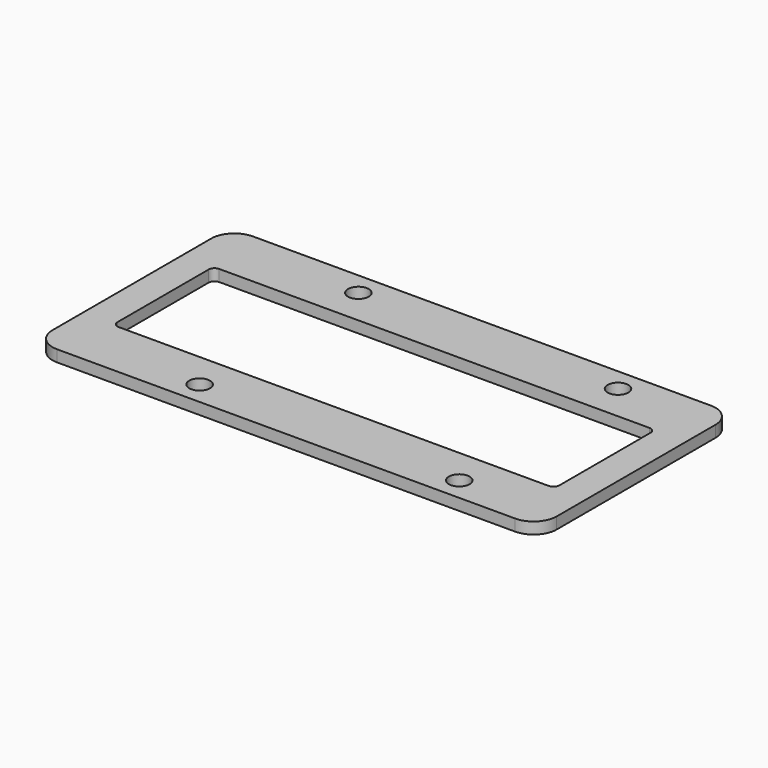
from build123d import *

# Parameters (mm, degrees)
SKETCH_W    = 87.4
SKETCH_H    = 42.4
SKETCH_R    = 1.8
SKETCH_W_2  = 76.6
SKETCH_H_2  = 21.8
PAD_DEPTH   = 2
FILLET_R    = 4
FILLET001_R = 1


with BuildPart() as part:
    # Sketch → Pad (new body)
    with BuildSketch(Plane.XY):
        Rectangle(SKETCH_W, SKETCH_H)
        with Locations((-18.2, 17.2)):
            Circle(SKETCH_R, mode=Mode.SUBTRACT)
        with Locations((-18.2, -17.2)):
            Circle(SKETCH_R, mode=Mode.SUBTRACT)
        with Locations((26.8, -17.2)):
            Circle(SKETCH_R, mode=Mode.SUBTRACT)
        with Locations((26.8, 17.2)):
            Circle(SKETCH_R, mode=Mode.SUBTRACT)
        Rectangle(SKETCH_W_2, SKETCH_H_2, mode=Mode.SUBTRACT)
    extrude(amount=PAD_DEPTH)

    # Fillet
    fillet_edges = [part.edges().sort_by_distance(p)[0] for p in [
        (43.7, -21.2, 1),
        (-43.7, -21.2, 1),
        (43.7, 21.2, 1),
        (-43.7, 21.2, 1),
    ]]
    fillet(fillet_edges, radius=FILLET_R)

    # Fillet001
    fillet001_edges = [part.edges().sort_by_distance(p)[0] for p in [
        (38.3, 10.9, 1),
        (38.3, -10.9, 1),
        (-38.3, -10.9, 1),
        (-38.3, 10.9, 1),
    ]]
    fillet(fillet001_edges, radius=FILLET001_R)


solid = part.part
